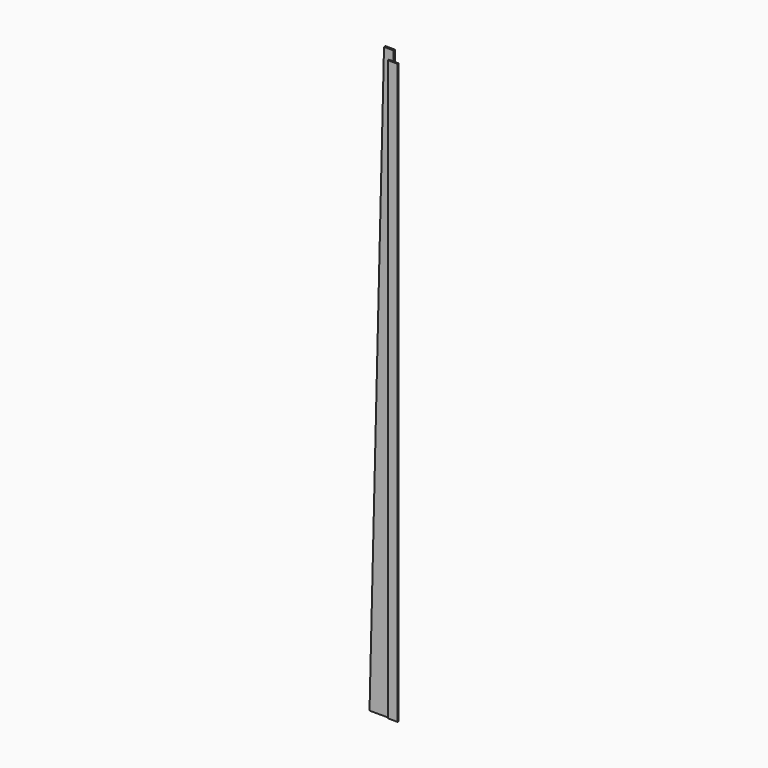
from build123d import *

# Parameters (mm, degrees)
F0_W     = 50.8
F0_H     = 3048
F1_DEPTH = 6.35
F3_DEPTH = 9.525


with BuildPart() as f1:
    # F0 (on Front) → F1 (new body)
    with BuildSketch(Plane.XZ):
        with Locations((-25.4, 1524)):
            Rectangle(F0_W, F0_H)
    extrude(amount=F1_DEPTH)

    # F2 (on face) → F3 (join)
    with BuildSketch(Plane(origin=(0, 0, 0), x_dir=(-1, 0, 0), z_dir=(0, 1, 0))):
        Polygon((152.4, 0), (76.2, 3098.8), (25.4, 3098.8), (25.4, 0), align=None)
    extrude(amount=F3_DEPTH)


solid = f1.part
